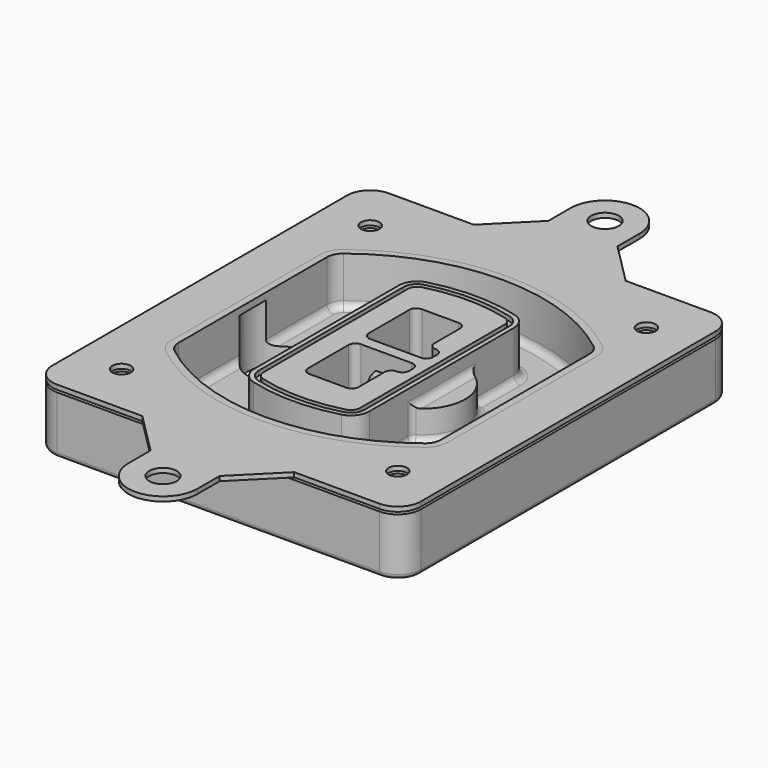
from build123d import *

# Parameters (mm, degrees)
F0_R      = 4
F1_DEPTH  = 25
F2_DEPTH  = 3
F3_DEPTH  = 18
F5_DEPTH  = 21
F6_DEPTH  = 2
F8_DEPTH  = 20
F9_DEPTH  = 16
F10_DEPTH = 25
F7_R      = 6
F7_R_2    = 4
F11_DEPTH = 6
F13_DEPTH = 9
F14_R     = 3
F15_R     = 2
F16_R     = 4
F16_R_2   = 6
F17_DEPTH = 2


with BuildPart() as f1:
    # F0 (on Top) → F1 (new body)
    with BuildSketch(Plane.XY):
        with BuildLine():
            ThreePointArc((-80, -80), (-77.0710678119, -87.0710678119), (-70, -90))
            Line((-70, -90), (70, -90))
            ThreePointArc((70, -90), (77.0710678119, -87.0710678119), (80, -80))
            Line((80, -80), (80, 80))
            ThreePointArc((80, 80), (77.0710678119, 87.0710678119), (70, 90))
            Line((70, 90), (-70, 90))
            ThreePointArc((-70, 90), (-77.0710678119, 87.0710678119), (-80, 80))
            Line((-80, 80), (-80, -80))
        make_face()
        with Locations((-60, -67.5)):
            Circle(F0_R, mode=Mode.SUBTRACT)
        with Locations((60, -67.5)):
            Circle(F0_R, mode=Mode.SUBTRACT)
        with Locations((-60, 67.5)):
            Circle(F0_R, mode=Mode.SUBTRACT)
        with BuildLine():
            ThreePointArc((-64, 40.2934422872), (-62.5820384798, 46.4328484224), (-58.6153846154, 51.3286200352))
            ThreePointArc((-58.6153846154, 51.3286200352), (0, 71.5), (58.6153846154, 51.3286200352))
            ThreePointArc((58.6153846154, 51.3286200352), (62.5820384798, 46.4328484224), (64, 40.2934422872))
            Line((64, 40.2934422872), (64, -40.2934422872))
            ThreePointArc((64, -40.2934422872), (62.5820384798, -46.4328484224), (58.6153846154, -51.3286200352))
            ThreePointArc((58.6153846154, -51.3286200352), (0, -71.5), (-58.6153846154, -51.3286200352))
            ThreePointArc((-58.6153846154, -51.3286200352), (-62.5820384798, -46.4328484224), (-64, -40.2934422872))
            Line((-64, -40.2934422872), (-64, 40.2934422872))
        make_face(mode=Mode.SUBTRACT)
        with Locations((60, 67.5)):
            Circle(F0_R, mode=Mode.SUBTRACT)
        with BuildLine():
            ThreePointArc((58.6153846154, 51.3286200352), (0, 71.5), (-58.6153846154, 51.3286200352))
            ThreePointArc((-58.6153846154, 51.3286200352), (-62.5820384798, 46.4328484224), (-64, 40.2934422872))
            Line((-64, 40.2934422872), (-64, -40.2934422872))
            ThreePointArc((-64, -40.2934422872), (-62.5820384798, -46.4328484224), (-58.6153846154, -51.3286200352))
            ThreePointArc((-58.6153846154, -51.3286200352), (0, -71.5), (58.6153846154, -51.3286200352))
            ThreePointArc((58.6153846154, -51.3286200352), (62.5820384798, -46.4328484224), (64, -40.2934422872))
            Line((64, -40.2934422872), (64, 40.2934422872))
            ThreePointArc((64, 40.2934422872), (62.5820384798, 46.4328484224), (58.6153846154, 51.3286200352))
        make_face()
        with BuildLine():
            Line((-60, -40.2934422872), (-60, 40.2934422872))
            ThreePointArc((-60, 40.2934422872), (-58.9871703427, 44.6787323838), (-56.1538461538, 48.1757121072))
            ThreePointArc((-56.1538461538, 48.1757121072), (0, 67.5), (56.1538461538, 48.1757121072))
            ThreePointArc((56.1538461538, 48.1757121072), (58.9871703427, 44.6787323838), (60, 40.2934422872))
            Line((60, 40.2934422872), (60, -40.2934422872))
            ThreePointArc((60, -40.2934422872), (58.9871703427, -44.6787323838), (56.1538461538, -48.1757121072))
            ThreePointArc((56.1538461538, -48.1757121072), (0, -67.5), (-56.1538461538, -48.1757121072))
            ThreePointArc((-56.1538461538, -48.1757121072), (-58.9871703427, -44.6787323838), (-60, -40.2934422872))
        make_face(mode=Mode.SUBTRACT)
        with BuildLine():
            ThreePointArc((-56.1538461538, 48.1757121072), (-58.9871703427, 44.6787323838), (-60, 40.2934422872))
            Line((-60, 40.2934422872), (-60, -40.2934422872))
            ThreePointArc((-60, -40.2934422872), (-58.9871703427, -44.6787323838), (-56.1538461538, -48.1757121072))
            ThreePointArc((-56.1538461538, -48.1757121072), (0, -67.5), (56.1538461538, -48.1757121072))
            ThreePointArc((56.1538461538, -48.1757121072), (58.9871703427, -44.6787323838), (60, -40.2934422872))
            Line((60, -40.2934422872), (60, 40.2934422872))
            ThreePointArc((60, 40.2934422872), (58.9871703427, 44.6787323838), (56.1538461538, 48.1757121072))
            ThreePointArc((56.1538461538, 48.1757121072), (0, 67.5), (-56.1538461538, 48.1757121072))
        make_face()
        with BuildLine():
            ThreePointArc((54.3076923077, 45.8110311612), (56.2910192399, 43.3631453548), (57, 40.2934422872))
            Line((57, 40.2934422872), (57, -40.2934422872))
            ThreePointArc((57, -40.2934422872), (56.2910192399, -43.3631453548), (54.3076923077, -45.8110311612))
            ThreePointArc((54.3076923077, -45.8110311612), (0, -64.5), (-54.3076923077, -45.8110311612))
            ThreePointArc((-54.3076923077, -45.8110311612), (-56.2910192399, -43.3631453548), (-57, -40.2934422872))
            Line((-57, -40.2934422872), (-57, 40.2934422872))
            ThreePointArc((-57, 40.2934422872), (-56.2910192399, 43.3631453548), (-54.3076923077, 45.8110311612))
            ThreePointArc((-54.3076923077, 45.8110311612), (0, 64.5), (54.3076923077, 45.8110311612))
        make_face(mode=Mode.SUBTRACT)
        with BuildLine():
            Line((57, -40.2934422872), (57, 40.2934422872))
            ThreePointArc((57, 40.2934422872), (56.2910192399, 43.3631453548), (54.3076923077, 45.8110311612))
            ThreePointArc((54.3076923077, 45.8110311612), (0, 64.5), (-54.3076923077, 45.8110311612))
            ThreePointArc((-54.3076923077, 45.8110311612), (-56.2910192399, 43.3631453548), (-57, 40.2934422872))
            Line((-57, 40.2934422872), (-57, -40.2934422872))
            ThreePointArc((-57, -40.2934422872), (-56.2910192399, -43.3631453548), (-54.3076923077, -45.8110311612))
            ThreePointArc((-54.3076923077, -45.8110311612), (0, -64.5), (54.3076923077, -45.8110311612))
            ThreePointArc((54.3076923077, -45.8110311612), (56.2910192399, -43.3631453548), (57, -40.2934422872))
        make_face()
    extrude(amount=-F1_DEPTH)

    # F0 (on Top) → F2 (join)
    with BuildSketch(Plane.XY):
        with BuildLine():
            ThreePointArc((-56.1538461538, 48.1757121072), (-58.9871703427, 44.6787323838), (-60, 40.2934422872))
            Line((-60, 40.2934422872), (-60, -40.2934422872))
            ThreePointArc((-60, -40.2934422872), (-58.9871703427, -44.6787323838), (-56.1538461538, -48.1757121072))
            ThreePointArc((-56.1538461538, -48.1757121072), (0, -67.5), (56.1538461538, -48.1757121072))
            ThreePointArc((56.1538461538, -48.1757121072), (58.9871703427, -44.6787323838), (60, -40.2934422872))
            Line((60, -40.2934422872), (60, 40.2934422872))
            ThreePointArc((60, 40.2934422872), (58.9871703427, 44.6787323838), (56.1538461538, 48.1757121072))
            ThreePointArc((56.1538461538, 48.1757121072), (0, 67.5), (-56.1538461538, 48.1757121072))
        make_face()
        with BuildLine():
            ThreePointArc((54.3076923077, 45.8110311612), (56.2910192399, 43.3631453548), (57, 40.2934422872))
            Line((57, 40.2934422872), (57, -40.2934422872))
            ThreePointArc((57, -40.2934422872), (56.2910192399, -43.3631453548), (54.3076923077, -45.8110311612))
            ThreePointArc((54.3076923077, -45.8110311612), (0, -64.5), (-54.3076923077, -45.8110311612))
            ThreePointArc((-54.3076923077, -45.8110311612), (-56.2910192399, -43.3631453548), (-57, -40.2934422872))
            Line((-57, -40.2934422872), (-57, 40.2934422872))
            ThreePointArc((-57, 40.2934422872), (-56.2910192399, 43.3631453548), (-54.3076923077, 45.8110311612))
            ThreePointArc((-54.3076923077, 45.8110311612), (0, 64.5), (54.3076923077, 45.8110311612))
        make_face(mode=Mode.SUBTRACT)
    extrude(amount=F2_DEPTH)

    # F0 (on Top) → F3 (cut)
    with BuildSketch(Plane.XY):
        with BuildLine():
            Line((57, -40.2934422872), (57, 40.2934422872))
            ThreePointArc((57, 40.2934422872), (56.2910192399, 43.3631453548), (54.3076923077, 45.8110311612))
            ThreePointArc((54.3076923077, 45.8110311612), (0, 64.5), (-54.3076923077, 45.8110311612))
            ThreePointArc((-54.3076923077, 45.8110311612), (-56.2910192399, 43.3631453548), (-57, 40.2934422872))
            Line((-57, 40.2934422872), (-57, -40.2934422872))
            ThreePointArc((-57, -40.2934422872), (-56.2910192399, -43.3631453548), (-54.3076923077, -45.8110311612))
            ThreePointArc((-54.3076923077, -45.8110311612), (0, -64.5), (54.3076923077, -45.8110311612))
            ThreePointArc((54.3076923077, -45.8110311612), (56.2910192399, -43.3631453548), (57, -40.2934422872))
        make_face()
    extrude(amount=-F3_DEPTH, mode=Mode.SUBTRACT)

    # F4 (on face) → F5 (join, through all)
    with BuildSketch(Plane.XY.offset(3)):
        with BuildLine():
            ThreePointArc((-25, -39.2465276821), (-23.3511545998, -44.1109737193), (-19.0842911877, -46.9702398883))
            ThreePointArc((-19.0842911877, -46.9702398883), (0, -49.5), (19.0842911877, -46.9702398883))
            ThreePointArc((19.0842911877, -46.9702398883), (23.3511545998, -44.1109737193), (25, -39.2465276821))
            Line((25, -39.2465276821), (25, 39.2465276821))
            ThreePointArc((25, 39.2465276821), (23.3511545998, 44.1109737193), (19.0842911877, 46.9702398883))
            ThreePointArc((19.0842911877, 46.9702398883), (0, 49.5), (-19.0842911877, 46.9702398883))
            ThreePointArc((-19.0842911877, 46.9702398883), (-23.3511545998, 44.1109737193), (-25, 39.2465276821))
            Line((-25, 39.2465276821), (-25, -39.2465276821))
        make_face()
        with BuildLine():
            ThreePointArc((18.5632183908, 45.0393118368), (21.7633659499, 42.89486221), (23, 39.2465276821))
            Line((23, 39.2465276821), (23, -39.2465276821))
            ThreePointArc((23, -39.2465276821), (21.7633659499, -42.89486221), (18.5632183908, -45.0393118368))
            ThreePointArc((18.5632183908, -45.0393118368), (0, -47.5), (-18.5632183908, -45.0393118368))
            ThreePointArc((-18.5632183908, -45.0393118368), (-21.7633659499, -42.89486221), (-23, -39.2465276821))
            Line((-23, -39.2465276821), (-23, 39.2465276821))
            ThreePointArc((-23, 39.2465276821), (-21.7633659499, 42.89486221), (-18.5632183908, 45.0393118368))
            ThreePointArc((-18.5632183908, 45.0393118368), (0, 47.5), (18.5632183908, 45.0393118368))
        make_face(mode=Mode.SUBTRACT)
        with BuildLine():
            Line((23, -39.2465276821), (23, 39.2465276821))
            ThreePointArc((23, 39.2465276821), (21.7633659499, 42.89486221), (18.5632183908, 45.0393118368))
            ThreePointArc((18.5632183908, 45.0393118368), (0, 47.5), (-18.5632183908, 45.0393118368))
            ThreePointArc((-18.5632183908, 45.0393118368), (-21.7633659499, 42.89486221), (-23, 39.2465276821))
            Line((-23, 39.2465276821), (-23, -39.2465276821))
            ThreePointArc((-23, -39.2465276821), (-21.7633659499, -42.89486221), (-18.5632183908, -45.0393118368))
            ThreePointArc((-18.5632183908, -45.0393118368), (0, -47.5), (18.5632183908, -45.0393118368))
            ThreePointArc((18.5632183908, -45.0393118368), (21.7633659499, -42.89486221), (23, -39.2465276821))
        make_face()
        with BuildLine():
            ThreePointArc((18.0421455939, 43.1083837852), (20.1755772999, 41.6787507007), (21, 39.2465276821))
            Line((21, 39.2465276821), (21, -39.2465276821))
            ThreePointArc((21, -39.2465276821), (20.1755772999, -41.6787507007), (18.0421455939, -43.1083837852))
            ThreePointArc((18.0421455939, -43.1083837852), (0, -45.5), (-18.0421455939, -43.1083837852))
            ThreePointArc((-18.0421455939, -43.1083837852), (-20.1755772999, -41.6787507007), (-21, -39.2465276821))
            Line((-21, -39.2465276821), (-21, 39.2465276821))
            ThreePointArc((-21, 39.2465276821), (-20.1755772999, 41.6787507007), (-18.0421455939, 43.1083837852))
            ThreePointArc((-18.0421455939, 43.1083837852), (0, 45.5), (18.0421455939, 43.1083837852))
        make_face(mode=Mode.SUBTRACT)
        with BuildLine():
            Line((21, -39.2465276821), (21, 39.2465276821))
            ThreePointArc((21, 39.2465276821), (20.1755772999, 41.6787507007), (18.0421455939, 43.1083837852))
            ThreePointArc((18.0421455939, 43.1083837852), (0, 45.5), (-18.0421455939, 43.1083837852))
            ThreePointArc((-18.0421455939, 43.1083837852), (-20.1755772999, 41.6787507007), (-21, 39.2465276821))
            Line((-21, 39.2465276821), (-21, -39.2465276821))
            ThreePointArc((-21, -39.2465276821), (-20.1755772999, -41.6787507007), (-18.0421455939, -43.1083837852))
            ThreePointArc((-18.0421455939, -43.1083837852), (0, -45.5), (18.0421455939, -43.1083837852))
            ThreePointArc((18.0421455939, -43.1083837852), (20.1755772999, -41.6787507007), (21, -39.2465276821))
        make_face()
        with BuildLine():
            Line((-8, -2.5), (14, -2.5))
            ThreePointArc((14, -2.5), (16.1213203436, -3.3786796564), (17, -5.5))
            Line((17, -5.5), (17, -7.5))
            ThreePointArc((17, -7.5), (16.1213203436, -9.6213203436), (14, -10.5))
            ThreePointArc((14, -10.5), (11.8786796564, -11.3786796564), (11, -13.5))
            Line((11, -13.5), (11, -27.5))
            ThreePointArc((11, -27.5), (10.1213203436, -29.6213203436), (8, -30.5))
            Line((8, -30.5), (-8, -30.5))
            ThreePointArc((-8, -30.5), (-10.1213203436, -29.6213203436), (-11, -27.5))
            Line((-11, -27.5), (-11, -5.5))
            ThreePointArc((-11, -5.5), (-10.1213203436, -3.3786796564), (-8, -2.5))
        make_face(mode=Mode.SUBTRACT)
        with BuildLine():
            ThreePointArc((-8, 2.5), (-10.1213203436, 3.3786796564), (-11, 5.5))
            Line((-11, 5.5), (-11, 27.5))
            ThreePointArc((-11, 27.5), (-10.1213203436, 29.6213203436), (-8, 30.5))
            Line((-8, 30.5), (8, 30.5))
            ThreePointArc((8, 30.5), (10.1213203436, 29.6213203436), (11, 27.5))
            Line((11, 27.5), (11, 13.5))
            ThreePointArc((11, 13.5), (11.8786796564, 11.3786796564), (14, 10.5))
            ThreePointArc((14, 10.5), (16.1213203436, 9.6213203436), (17, 7.5))
            Line((17, 7.5), (17, 5.5))
            ThreePointArc((17, 5.5), (16.1213203436, 3.3786796564), (14, 2.5))
            Line((14, 2.5), (-8, 2.5))
        make_face(mode=Mode.SUBTRACT)
    extrude(amount=-F5_DEPTH)

    # F4 (on face) → F6 (cut)
    with BuildSketch(Plane.XY.offset(3)):
        with BuildLine():
            Line((23, -39.2465276821), (23, 39.2465276821))
            ThreePointArc((23, 39.2465276821), (21.7633659499, 42.89486221), (18.5632183908, 45.0393118368))
            ThreePointArc((18.5632183908, 45.0393118368), (0, 47.5), (-18.5632183908, 45.0393118368))
            ThreePointArc((-18.5632183908, 45.0393118368), (-21.7633659499, 42.89486221), (-23, 39.2465276821))
            Line((-23, 39.2465276821), (-23, -39.2465276821))
            ThreePointArc((-23, -39.2465276821), (-21.7633659499, -42.89486221), (-18.5632183908, -45.0393118368))
            ThreePointArc((-18.5632183908, -45.0393118368), (0, -47.5), (18.5632183908, -45.0393118368))
            ThreePointArc((18.5632183908, -45.0393118368), (21.7633659499, -42.89486221), (23, -39.2465276821))
        make_face()
        with BuildLine():
            ThreePointArc((18.0421455939, 43.1083837852), (20.1755772999, 41.6787507007), (21, 39.2465276821))
            Line((21, 39.2465276821), (21, -39.2465276821))
            ThreePointArc((21, -39.2465276821), (20.1755772999, -41.6787507007), (18.0421455939, -43.1083837852))
            ThreePointArc((18.0421455939, -43.1083837852), (0, -45.5), (-18.0421455939, -43.1083837852))
            ThreePointArc((-18.0421455939, -43.1083837852), (-20.1755772999, -41.6787507007), (-21, -39.2465276821))
            Line((-21, -39.2465276821), (-21, 39.2465276821))
            ThreePointArc((-21, 39.2465276821), (-20.1755772999, 41.6787507007), (-18.0421455939, 43.1083837852))
            ThreePointArc((-18.0421455939, 43.1083837852), (0, 45.5), (18.0421455939, 43.1083837852))
        make_face(mode=Mode.SUBTRACT)
    extrude(amount=-F6_DEPTH, mode=Mode.SUBTRACT)

    # F7 (on face) → F8 (join)
    with BuildSketch(Plane(origin=(0, 0, -25), x_dir=(1, 0, 0), z_dir=(0, 0, -1))):
        with BuildLine():
            ThreePointArc((3.28842436, 0), (16.7567035675, 13.4682792075), (30.224982775, 0))
            Line((30.224982775, 0), (35.224982775, 0))
            ThreePointArc((35.224982775, 0), (16.7567035675, 18.4682792075), (-1.71157564, 0))
            Line((-1.71157564, 0), (3.28842436, 0))
        make_face()
        with BuildLine():
            Line((3.28842436, 0), (30.224982775, 0))
            ThreePointArc((30.224982775, 0), (16.7567035675, 13.4682792075), (3.28842436, 0))
        make_face()
        with BuildLine():
            ThreePointArc((3.28842436, 0), (16.7567035675, -13.4682792075), (30.224982775, 0))
            Line((30.224982775, 0), (3.28842436, 0))
        make_face()
        with BuildLine():
            Line((35.224982775, 0), (30.224982775, 0))
            ThreePointArc((30.224982775, 0), (16.7567035675, -13.4682792075), (3.28842436, 0))
            Line((3.28842436, 0), (-1.71157564, 0))
            ThreePointArc((-1.71157564, 0), (16.7567035675, -18.4682792075), (35.224982775, 0))
        make_face()
    extrude(amount=-F8_DEPTH)

    # F7 (on face) → F9 (cut)
    with BuildSketch(Plane(origin=(0, 0, -25), x_dir=(1, 0, 0), z_dir=(0, 0, -1))):
        with BuildLine():
            Line((3.28842436, 0), (30.224982775, 0))
            ThreePointArc((30.224982775, 0), (16.7567035675, 13.4682792075), (3.28842436, 0))
        make_face()
        with BuildLine():
            ThreePointArc((3.28842436, 0), (16.7567035675, -13.4682792075), (30.224982775, 0))
            Line((30.224982775, 0), (3.28842436, 0))
        make_face()
    extrude(amount=-F9_DEPTH, mode=Mode.SUBTRACT)

    # F7 (on face) → F10 (cut)
    with BuildSketch(Plane(origin=(0, 0, -25), x_dir=(1, 0, 0), z_dir=(0, 0, -1))):
        with BuildLine():
            Line((-59.0318229325, 0), (-32.0952645175, 0))
            ThreePointArc((-32.0952645175, 0), (-45.563543725, 13.4682792075), (-59.0318229325, 0))
        make_face()
        with BuildLine():
            ThreePointArc((-59.0318229325, 0), (-45.563543725, -13.4682792075), (-32.0952645175, 0))
            Line((-32.0952645175, 0), (-59.0318229325, 0))
        make_face()
    extrude(amount=-F10_DEPTH, mode=Mode.SUBTRACT)

    # F7 (on face) → F11 (cut)
    with BuildSketch(Plane(origin=(0, 0, -25), x_dir=(1, 0, 0), z_dir=(0, 0, -1))):
        with Locations((60, -67.5)):
            Circle(F7_R)
        with Locations((60, -67.5)):
            Circle(F7_R_2, mode=Mode.SUBTRACT)
        with Locations((60, -67.5)):
            Circle(F7_R)
        with Locations((60, -67.5)):
            Circle(F7_R_2, mode=Mode.SUBTRACT)
        with Locations((-60, -67.5)):
            Circle(F7_R)
        with Locations((-60, -67.5)):
            Circle(F7_R_2, mode=Mode.SUBTRACT)
        with Locations((-60, -67.5)):
            Circle(F7_R)
        with Locations((-60, -67.5)):
            Circle(F7_R_2, mode=Mode.SUBTRACT)
        with Locations((-60, 67.5)):
            Circle(F7_R)
        with Locations((-60, 67.5)):
            Circle(F7_R_2, mode=Mode.SUBTRACT)
        with Locations((-60, 67.5)):
            Circle(F7_R)
        with Locations((-60, 67.5)):
            Circle(F7_R_2, mode=Mode.SUBTRACT)
        with Locations((60, 67.5)):
            Circle(F7_R)
        with Locations((60, 67.5)):
            Circle(F7_R_2, mode=Mode.SUBTRACT)
        with Locations((60, 67.5)):
            Circle(F7_R)
        with Locations((60, 67.5)):
            Circle(F7_R_2, mode=Mode.SUBTRACT)
    extrude(amount=-F11_DEPTH, mode=Mode.SUBTRACT)

    # F12 (on face) → F13 (cut, through all)
    with BuildSketch(Plane(origin=(0, 0, -9), x_dir=(1, 0, 0), z_dir=(0, 0, -1))):
        with BuildLine():
            Line((11, 13.5), (11, 17.5481537753))
            ThreePointArc((11, 17.5481537753), (2.5696536419, 11.8239143813), (-1.5415842455, 2.5))
            Line((-1.5415842455, 2.5), (3.5224848595, 2.5))
            ThreePointArc((3.5224848595, 2.5), (6.1857188154, 8.3455872281), (11.2536447004, 12.2927168648))
            ThreePointArc((11.2536447004, 12.2927168648), (11.0640958889, 12.8831798879), (11, 13.5))
        make_face()
        with BuildLine():
            ThreePointArc((11.2536447004, -12.2927168648), (6.1857188154, -8.3455872281), (3.5224848595, -2.5))
            Line((3.5224848595, -2.5), (-1.5415842455, -2.5))
            ThreePointArc((-1.5415842455, -2.5), (2.5696536419, -11.8239143813), (11, -17.5481537753))
            Line((11, -17.5481537753), (11, -13.5))
            ThreePointArc((11, -13.5), (11.0640958889, -12.8831798879), (11.2536447004, -12.2927168648))
        make_face()
        with BuildLine():
            ThreePointArc((11.2536447004, 12.2927168648), (6.1857188154, 8.3455872281), (3.5224848595, 2.5))
            Line((3.5224848595, 2.5), (14, 2.5))
            ThreePointArc((14, 2.5), (16.1213203436, 3.3786796564), (17, 5.5))
            Line((17, 5.5), (17, 7.5))
            ThreePointArc((17, 7.5), (16.1213203436, 9.6213203436), (14, 10.5))
            ThreePointArc((14, 10.5), (12.3601599782, 10.9878446101), (11.2536447004, 12.2927168648))
        make_face()
        with BuildLine():
            Line((14, -2.5), (3.5224848595, -2.5))
            ThreePointArc((3.5224848595, -2.5), (6.1857188154, -8.3455872281), (11.2536447004, -12.2927168648))
            ThreePointArc((11.2536447004, -12.2927168648), (12.3601599782, -10.9878446101), (14, -10.5))
            ThreePointArc((14, -10.5), (16.1213203436, -9.6213203436), (17, -7.5))
            Line((17, -7.5), (17, -5.5))
            ThreePointArc((17, -5.5), (16.1213203436, -3.3786796564), (14, -2.5))
        make_face()
    extrude(amount=F13_DEPTH, mode=Mode.SUBTRACT)

    # F14
    f14_edges = [f1.edges().sort_by_distance(p)[0] for p in [
        (-57, -23.703476, -18),
        (-57, 23.703476, -18),
        (25, 0, -5),
        (25, 16.526506, -11.5),
        (25, -16.526506, -11.5),
        (25, -27.886517, -18),
        (35.224983, 0, -18),
    ]]
    fillet(f14_edges, radius=F14_R)

    # F15
    f15_edges = [f1.edges().sort_by_distance(p)[0] for p in [
        (0, -90, -25),
    ]]
    fillet(f15_edges, radius=F15_R)


with BuildPart() as f17:
    # F16 (on face) → F17 (new body, through all)
    with BuildSketch(Plane.XY.offset(1)):
        with BuildLine():
            Line((-80, 80), (-80, -80))
            ThreePointArc((-80, -80), (-77.0710678119, -87.0710678119), (-70, -90))
            Line((-70, -90), (-33, -90))
            Line((-33, -90), (33, -90))
            Line((33, -90), (70, -90))
            ThreePointArc((70, -90), (77.0710678119, -87.0710678119), (80, -80))
            Line((80, -80), (80, 80))
            ThreePointArc((80, 80), (77.0710678119, 87.0710678119), (70, 90))
            Line((70, 90), (33, 90))
            Line((33, 90), (-33, 90))
            Line((-33, 90), (-70, 90))
            ThreePointArc((-70, 90), (-77.0710678119, 87.0710678119), (-80, 80))
        make_face()
        with Locations((-60, -67.5)):
            Circle(F16_R, mode=Mode.SUBTRACT)
        with Locations((60, -67.5)):
            Circle(F16_R, mode=Mode.SUBTRACT)
        with Locations((-60, 67.5)):
            Circle(F16_R, mode=Mode.SUBTRACT)
        with BuildLine():
            Line((-60, -40.2934422872), (-60, 40.2934422872))
            ThreePointArc((-60, 40.2934422872), (-58.9871703427, 44.6787323838), (-56.1538461538, 48.1757121072))
            ThreePointArc((-56.1538461538, 48.1757121072), (0, 67.5), (56.1538461538, 48.1757121072))
            ThreePointArc((56.1538461538, 48.1757121072), (58.9871703427, 44.6787323838), (60, 40.2934422872))
            Line((60, 40.2934422872), (60, -40.2934422872))
            ThreePointArc((60, -40.2934422872), (58.9871703427, -44.6787323838), (56.1538461538, -48.1757121072))
            ThreePointArc((56.1538461538, -48.1757121072), (0, -67.5), (-56.1538461538, -48.1757121072))
            ThreePointArc((-56.1538461538, -48.1757121072), (-58.9871703427, -44.6787323838), (-60, -40.2934422872))
        make_face(mode=Mode.SUBTRACT)
        with Locations((60, 67.5)):
            Circle(F16_R, mode=Mode.SUBTRACT)
        with BuildLine():
            Line((33, -90), (-33, -90))
            Line((-33, -90), (-15, -108))
            Line((-15, -108), (-15, -120))
            ThreePointArc((-15, -120), (0, -135), (15, -120))
            Line((15, -120), (15, -108))
            Line((15, -108), (33, -90))
        make_face()
        with Locations((0, -120)):
            Circle(F16_R_2, mode=Mode.SUBTRACT)
        with BuildLine():
            Line((-15, 108), (-33, 90))
            Line((-33, 90), (33, 90))
            Line((33, 90), (15, 108))
            Line((15, 108), (15, 120))
            ThreePointArc((15, 120), (0, 135), (-15, 120))
            Line((-15, 120), (-15, 108))
        make_face()
        with Locations((0, 120)):
            Circle(F16_R_2, mode=Mode.SUBTRACT)
    extrude(amount=F17_DEPTH)


solid = Compound([f1.part, f17.part])
